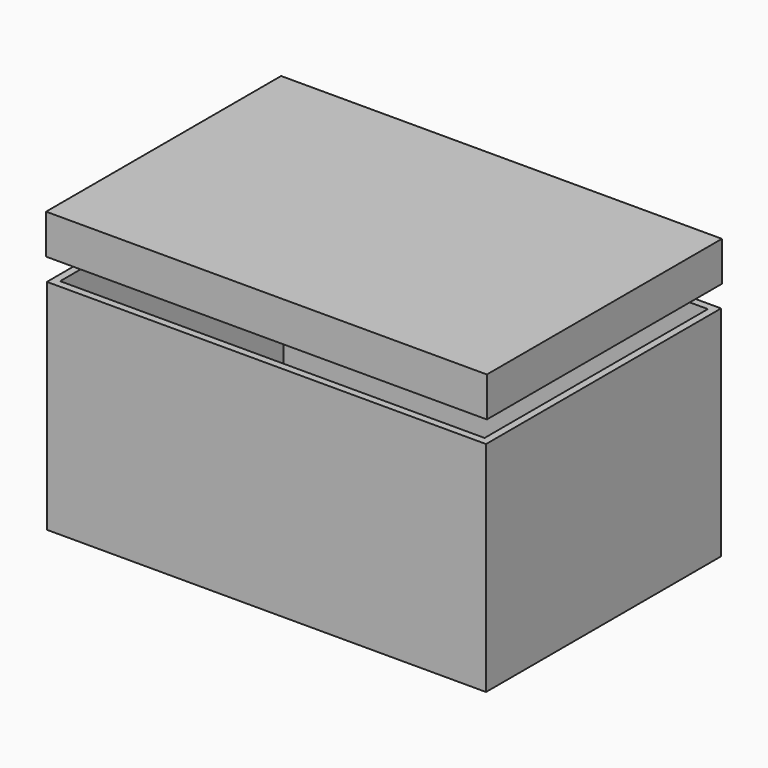
from build123d import *

# Parameters (mm, degrees)
F0_W     = 151.858695
F0_H     = 75.492132
F1_DEPTH = 101.6
F2_T     = -2.54
F3_W     = 152.441644
F3_H     = 13.699347
F4_DEPTH = 101.6
F5_T     = -2.54


with BuildPart() as f1:
    # F0 (on Front) → F1 (new body)
    with BuildSketch(Plane.XZ):
        with Locations((0.145738, -21.277705)):
            Rectangle(F0_W, F0_H)
    extrude(amount=F1_DEPTH)

    # F2
    f2_openings = [f1.faces().sort_by_distance(p)[0] for p in [
        (0.145737, -50.8, 16.468361),
    ]]
    offset(amount=F2_T, openings=f2_openings)


with BuildPart() as f4:
    # F3 (on Front) → F4 (new body)
    with BuildSketch(Plane.XZ):
        with Locations((0.145737, 30.896394)):
            Rectangle(F3_W, F3_H)
    extrude(amount=F4_DEPTH)

    # F5
    f5_openings = [f4.faces().sort_by_distance(p)[0] for p in [
        (0.145737, -50.8, 24.046721),
    ]]
    offset(amount=F5_T, openings=f5_openings)


solid = Compound([f1.part, f4.part])
